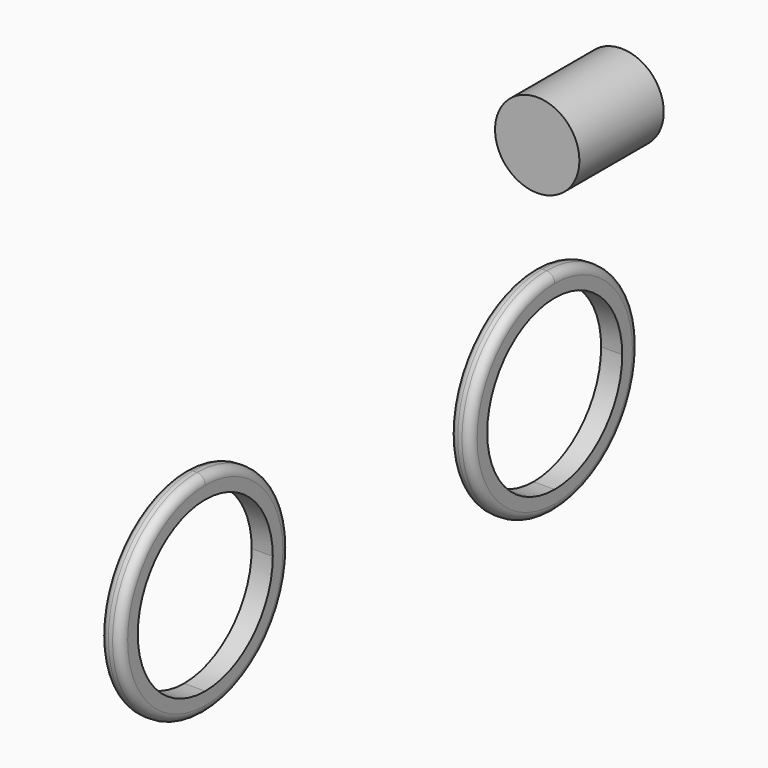
from build123d import *

# Parameters (mm, degrees)
F3_R     = 2
F4_R     = 2
F5_R     = 2
F6_R     = 2
F7_R     = 10
F8_DEPTH = 25


with BuildPart() as f2:
    # F2: sweep along a path in F1
    with BuildLine(Plane.XZ) as f2_path:
        Line((0, -11.6958379745), (5, -11.6958379745))
    # F0 (on Right) → F2 (sweep)
    with BuildSketch(Plane.YZ):
        with BuildLine():
            ThreePointArc((-50.5187138915, -61.6958379745), (-32.8410443618, -54.3735075042), (-25.5187138915, -36.6958379745))
            ThreePointArc((-25.5187138915, -36.6958379745), (-32.8410443618, -19.0181684449), (-50.5187138915, -11.6958379745))
            Line((-50.5187138915, -11.6958379745), (-50.5187138915, -16.6958379745))
            ThreePointArc((-50.5187138915, -16.6958379745), (-36.3765782678, -22.5537023508), (-30.5187138915, -36.6958379745))
            ThreePointArc((-30.5187138915, -36.6958379745), (-36.3765782678, -50.8379735983), (-50.5187138915, -56.6958379745))
            Line((-50.5187138915, -56.6958379745), (-50.5187138915, -61.6958379745))
        make_face()
        with BuildLine():
            Line((-50.5187138915, -16.6958379745), (-50.5187138915, -11.6958379745))
            ThreePointArc((-50.5187138915, -11.6958379745), (-75.5187138915, -36.6958379745), (-50.5187138915, -61.6958379745))
            Line((-50.5187138915, -61.6958379745), (-50.5187138915, -56.6958379745))
            ThreePointArc((-50.5187138915, -56.6958379745), (-70.5187138915, -36.6958379745), (-50.5187138915, -16.6958379745))
        make_face()
        with BuildLine():
            Line((53.0403032899, -16.6958379745), (53.0403032899, -11.6958379745))
            ThreePointArc((53.0403032899, -11.6958379745), (28.0403032899, -36.6958379745), (53.0403032899, -61.6958379745))
            Line((53.0403032899, -61.6958379745), (53.0403032899, -56.6958379745))
            ThreePointArc((53.0403032899, -56.6958379745), (33.0403032899, -36.6958379745), (53.0403032899, -16.6958379745))
        make_face()
        with BuildLine():
            ThreePointArc((53.0403032899, -61.6958379745), (70.7179728196, -54.3735075042), (78.0403032899, -36.6958379745))
            ThreePointArc((78.0403032899, -36.6958379745), (70.7179728196, -19.0181684449), (53.0403032899, -11.6958379745))
            Line((53.0403032899, -11.6958379745), (53.0403032899, -16.6958379745))
            ThreePointArc((53.0403032899, -16.6958379745), (67.1824389136, -22.5537023508), (73.0403032899, -36.6958379745))
            ThreePointArc((73.0403032899, -36.6958379745), (67.1824389136, -50.8379735983), (53.0403032899, -56.6958379745))
            Line((53.0403032899, -56.6958379745), (53.0403032899, -61.6958379745))
        make_face()
    sweep(path=f2_path.line)

    # F3
    f3_edges = [f2.edges().sort_by_distance(p)[0] for p in [
        (5, -50.518714, -61.695838),
    ]]
    fillet(f3_edges, radius=F3_R)

    # F4
    f4_edges = [f2.edges().sort_by_distance(p)[0] for p in [
        (0, -50.518714, -61.695838),
    ]]
    fillet(f4_edges, radius=F4_R)

    # F5
    f5_edges = [f2.edges().sort_by_distance(p)[0] for p in [
        (5, 53.040303, -61.695838),
    ]]
    fillet(f5_edges, radius=F5_R)

    # F6
    f6_edges = [f2.edges().sort_by_distance(p)[0] for p in [
        (0, 53.040303, -61.695838),
    ]]
    fillet(f6_edges, radius=F6_R)


with BuildPart() as f8:
    # F7 (on Front) → F8 (new body)
    with BuildSketch(Plane.XZ):
        with Locations((0, 13.1140102943)):
            Circle(F7_R)
    extrude(amount=F8_DEPTH)


with BuildPart() as f8_1:
    # F9: moved
    add(f8.part.moved(Location((0, 79.1, 0))))


solid = Compound([f2.part, f8_1.part])
